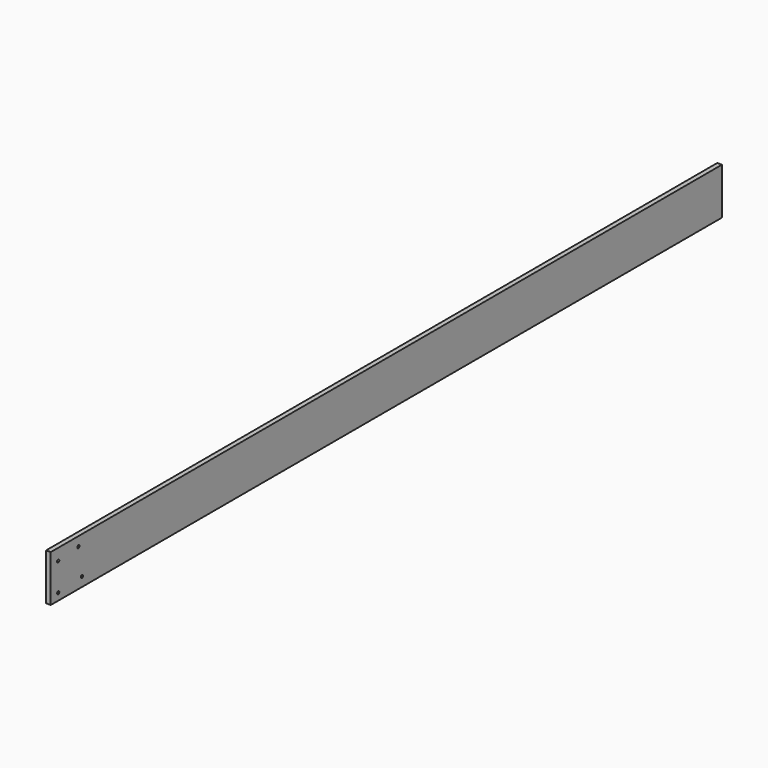
from build123d import *

# Parameters (mm, degrees)
F0_W     = 10
F0_H     = 100
F1_DEPTH = 1800
F4_D     = 6


with BuildPart() as f1:
    # F0 (on Front) → F1 (new body)
    with BuildSketch(Plane.XZ):
        with Locations((14.071317, 54.374899)):
            Rectangle(F0_W, F0_H)
    extrude(amount=-F1_DEPTH)

    # F4 (through all)
    with Locations(Plane.YZ.offset(19.071317)):
        with Locations((20, 79.374899), (20, 19.374899), (74.147792, 84.374899), (83.515501, 24.374899)):
            Hole(F4_D / 2)


solid = f1.part
